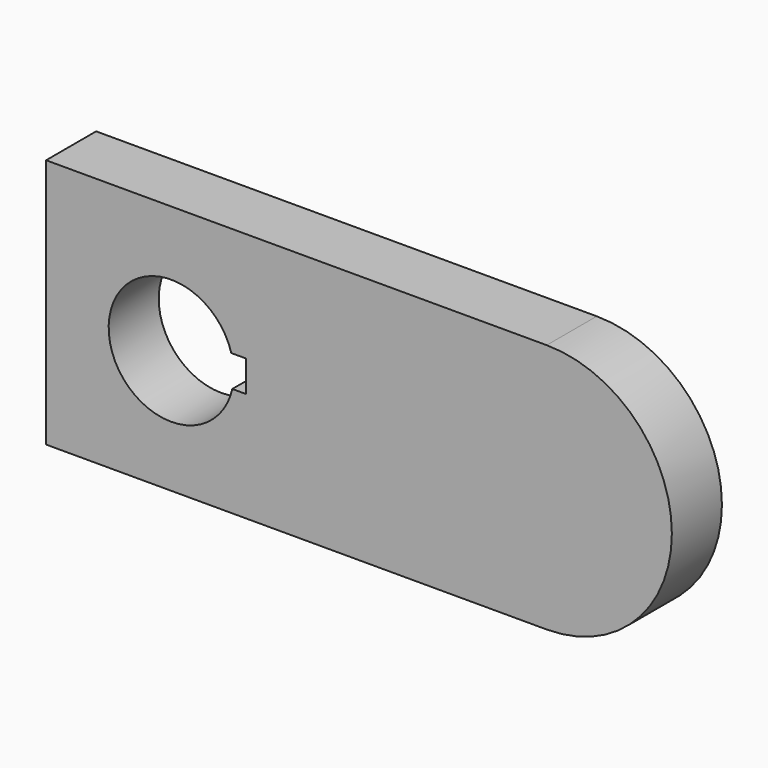
from build123d import *

# Parameters (mm, degrees)
F1_DEPTH = 10


with BuildPart() as f1:
    # F0 (on Front) → F1 (new body)
    with BuildSketch(Plane.XZ):
        with BuildLine():
            Line((-100, 0), (-20.000535, 0))
            ThreePointArc((-20.000535, 0), (-0.000535, 20), (-20.000535, 40))
            Line((-20.000535, 40), (-100, 40))
            Line((-100, 40), (-100, 0))
        make_face()
        with BuildLine():
            ThreePointArc((-70.246651, 17.5), (-89.995429, 19.404993), (-70.397874, 22.5))
            Line((-70.397874, 22.5), (-68.087297, 22.5))
            Line((-68.087297, 22.5), (-68.087297, 17.5))
            Line((-68.087297, 17.5), (-70.246651, 17.5))
        make_face(mode=Mode.SUBTRACT)
    extrude(amount=F1_DEPTH)


solid = f1.part
